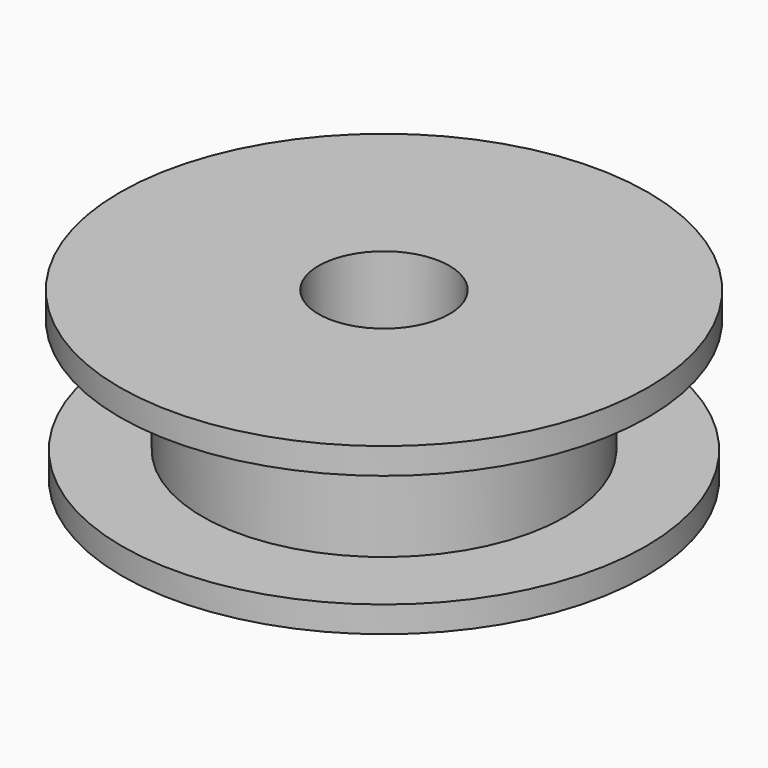
from build123d import *

# Parameters (mm, degrees)
F0_R     = 12.7
F0_R_2   = 3.175
F1_DEPTH = 1.27
F2_R     = 8.8060698198
F2_R_2   = 3.175
F3_DEPTH = 5.55625
F4_R     = 12.8157676945
F4_R_2   = 8.8060698198
F4_R_3   = 3.175
F5_DEPTH = 1.27


with BuildPart() as f1:
    # F0 (on Top) → F1 (new body)
    with BuildSketch(Plane.XY):
        with Locations((-24.458033964, 35.4546681046)):
            Circle(F0_R)
        with Locations((-24.458033964, 35.4546681046)):
            Circle(F0_R_2, mode=Mode.SUBTRACT)
    extrude(amount=F1_DEPTH)

    # F2 (on face) → F3 (join)
    with BuildSketch(Plane.XY.offset(1.27)):
        with Locations((-24.458033964, 35.4546681046)):
            Circle(F2_R)
        with Locations((-24.458033964, 35.4546681046)):
            Circle(F2_R_2, mode=Mode.SUBTRACT)
    extrude(amount=F3_DEPTH)

    # F4 (on face) → F5 (join)
    with BuildSketch(Plane.XY.offset(6.82625)):
        with Locations((-24.458033964, 35.4546681046)):
            Circle(F4_R)
        with Locations((-24.458033964, 35.4546681046)):
            Circle(F4_R_2, mode=Mode.SUBTRACT)
        with Locations((-24.458033964, 35.4546681046)):
            Circle(F4_R_2)
        with Locations((-24.458033964, 35.4546681046)):
            Circle(F4_R_3, mode=Mode.SUBTRACT)
    extrude(amount=F5_DEPTH)


solid = f1.part
